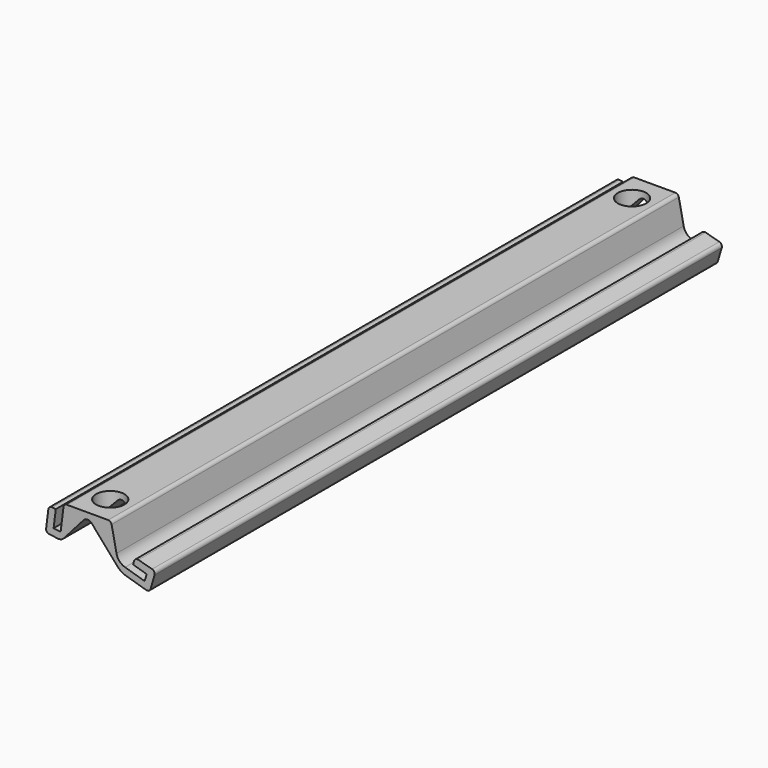
from build123d import *

# Parameters (mm, degrees)
F1_DEPTH      = 100
F1_DEPTH_BACK = 100
F2_R          = 4
F3_DEPTH      = 25


with BuildPart() as f1:
    # F0 (on Front) → F1 (new body, two sides)
    with BuildSketch(Plane.XZ) as f1_sk:
        with BuildLine():
            Line((24.42249, -4.81902), (19.149881, -3.247032))
            ThreePointArc((19.149881, -3.247032), (17.568078, -2.256041), (16.720596, -0.59293))
            Line((16.720596, -0.59293), (15.346803, 6.137254))
            ThreePointArc((15.346803, 6.137254), (14.999462, 6.711851), (14.367007, 6.937254))
            Line((14.367007, 6.937254), (2.763834, 6.937254))
            ThreePointArc((2.763834, 6.937254), (2.102396, 6.687254), (1.771677, 6.062254))
            Line((1.771677, 6.062254), (0.992157, -0.125))
            Line((0.992157, -0.125), (0.960907, -0.373039))
            Line((0.960907, -0.373039), (-1.023407, -0.123039))
            Line((-1.023407, -0.123039), (-0.398407, 4.837745))
            Line((-0.398407, 4.837745), (-1.390563, 4.962745))
            ThreePointArc((-1.390563, 4.962745), (-2.128736, 4.760537), (-2.50772, 4.095588))
            Line((-2.50772, 4.095588), (-3.13272, -0.865196))
            ThreePointArc((-3.13272, -0.865196), (-2.930513, -1.603368), (-2.265563, -1.982353))
            Line((-2.265563, -1.982353), (-1.638385, -2.06137))
            Line((-1.638385, -2.06137), (0.155972, -2.287437))
            ThreePointArc((0.155972, -2.287437), (1.113825, -2.173671), (1.907027, -1.624803))
            Line((1.907027, -1.624803), (7.435051, 4.653474))
            ThreePointArc((7.435051, 4.653474), (8.563861, 5.162211), (9.690614, 4.648935))
            Line((9.690614, 4.648935), (17.030737, -3.755333))
            ThreePointArc((17.030737, -3.755333), (18.092935, -4.67221), (19.36807, -5.257839))
            Line((19.36807, -5.257839), (25.087627, -6.963082))
            ThreePointArc((25.087627, -6.963082), (25.848942, -6.884428), (26.331656, -6.290481))
            Line((26.331656, -6.290481), (27.467995, -2.479084))
            ThreePointArc((27.467995, -2.479084), (27.383922, -1.707879), (26.773709, -1.228855))
            Line((26.773709, -1.228855), (22.914668, -0.172472))
            ThreePointArc((22.914668, -0.172472), (22.165149, -0.262744), (21.692325, -0.851272))
            Line((21.692325, -0.851272), (21.400238, -1.830962))
            Line((21.400238, -1.830962), (22.689428, -2.215324))
            Line((22.689428, -2.215324), (25.233497, -2.973819))
            Line((25.233497, -2.973819), (24.662068, -4.890448))
            Line((24.662068, -4.890448), (24.42249, -4.81902))
        make_face()
    extrude(amount=F1_DEPTH)
    extrude(f1_sk.sketch, amount=-F1_DEPTH_BACK)

    # F2 (on face) → F3 (cut)
    with BuildSketch(Plane.XY.offset(6.937254)):
        with Locations((8.565421, -92)):
            Circle(F2_R)
        with Locations((8.565421, 92)):
            Circle(F2_R)
    extrude(amount=-F3_DEPTH, mode=Mode.SUBTRACT)


solid = f1.part
